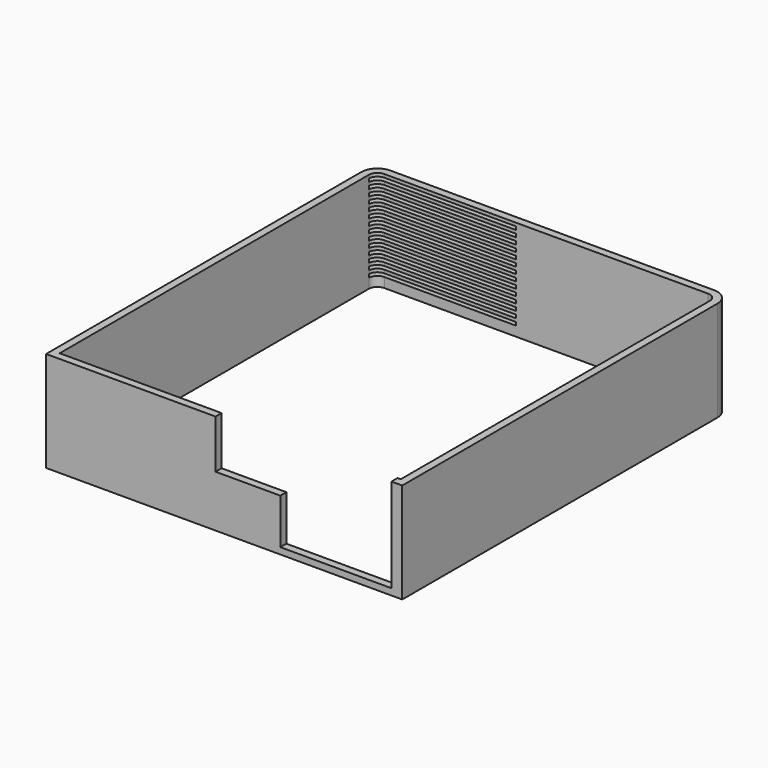
from build123d import *

# Parameters (mm, degrees)
F1_DEPTH  = 93
F3_DEPTH  = 25
F4_W      = 122
F4_H      = 3
F4_W_2    = 15
F5_DEPTH  = 15
F6_DEPTH  = 15
F7_DEPTH  = 15
F8_DEPTH  = 15
F9_DEPTH  = 15
F10_DEPTH = 15
F11_DEPTH = 15
F12_DEPTH = 15
F13_DEPTH = 15
F14_DEPTH = 15
F15_DEPTH = 15
F16_DEPTH = 15
F17_DEPTH = 15
F18_DEPTH = 15
F19_W     = 10
F19_H     = 20
F20_DEPTH = 0.2
F21_R     = 2.5
F22_DEPTH = 2
F23_DEPTH = 2
F24_W     = 13
F24_H     = 5
F25_DEPTH = 2


with BuildPart() as f1:
    # F0 (on Top) → F1 (new body)
    with BuildSketch(Plane.XY):
        with BuildLine():
            Line((67.644592, 203.804426), (-232.355408, 203.804426))
            ThreePointArc((-232.355408, 203.804426), (-242.96201, 199.411027), (-247.355408, 188.804426))
            Line((-247.355408, 188.804426), (-247.355408, -176.195574))
            Line((-247.355408, -176.195574), (82.644592, -176.195574))
            Line((82.644592, -176.195574), (82.644592, 188.804426))
            ThreePointArc((82.644592, 188.804426), (78.251193, 199.411027), (67.644592, 203.804426))
        make_face()
        with BuildLine():
            ThreePointArc((-240.355408, 188.804426), (-238.012263, 194.46128), (-232.355408, 196.804426))
            Line((-232.355408, 196.804426), (67.644592, 196.804426))
            ThreePointArc((67.644592, 196.804426), (73.301446, 194.46128), (75.644592, 188.804426))
            Line((75.644592, 188.804426), (75.644592, -169.195574))
            Line((75.644592, -169.195574), (-240.355408, -169.195574))
            Line((-240.355408, -169.195574), (-240.355408, 188.804426))
        make_face(mode=Mode.SUBTRACT)
    extrude(amount=F1_DEPTH)

    # F2 (on face) → F3 (cut)
    with BuildSketch(Plane.XZ.offset(176.195574)):
        Polygon((-30.355408, 6), (72.644592, 6), (72.644592, 100.520082), (-30.355408, 100.520082), (-30.355408, 48), align=None)
        Polygon((-90.355408, 48), (-30.355408, 48), (-30.355408, 100.520082), (-90.355408, 99.808939), align=None)
    extrude(amount=-F3_DEPTH, mode=Mode.SUBTRACT)

    # F4 (on face) → F5 (cut)
    with BuildSketch(Plane(origin=(0, 203.804426, 0), x_dir=(-1, 0, 0), z_dir=(0, 1, 0))):
        with Locations((171.355408, 88.5)):
            Rectangle(F4_W, F4_H)
        with Locations((239.855408, 88.5)):
            Rectangle(F4_W_2, F4_H)
    extrude(amount=-F5_DEPTH, mode=Mode.SUBTRACT)

    # F4 (on face) → F6 (cut)
    with BuildSketch(Plane(origin=(0, 203.804426, 0), x_dir=(-1, 0, 0), z_dir=(0, 1, 0))):
        with Locations((171.355408, 82.5)):
            Rectangle(F4_W, F4_H)
        with Locations((239.855408, 82.5)):
            Rectangle(F4_W_2, F4_H)
    extrude(amount=-F6_DEPTH, mode=Mode.SUBTRACT)

    # F4 (on face) → F7 (cut)
    with BuildSketch(Plane(origin=(0, 203.804426, 0), x_dir=(-1, 0, 0), z_dir=(0, 1, 0))):
        with Locations((171.355408, 76.5)):
            Rectangle(F4_W, F4_H)
        with Locations((239.855408, 76.5)):
            Rectangle(F4_W_2, F4_H)
    extrude(amount=-F7_DEPTH, mode=Mode.SUBTRACT)

    # F4 (on face) → F8 (cut)
    with BuildSketch(Plane(origin=(0, 203.804426, 0), x_dir=(-1, 0, 0), z_dir=(0, 1, 0))):
        with Locations((171.355408, 70.5)):
            Rectangle(F4_W, F4_H)
        with Locations((239.855408, 70.5)):
            Rectangle(F4_W_2, F4_H)
    extrude(amount=-F8_DEPTH, mode=Mode.SUBTRACT)

    # F4 (on face) → F9 (cut)
    with BuildSketch(Plane(origin=(0, 203.804426, 0), x_dir=(-1, 0, 0), z_dir=(0, 1, 0))):
        with Locations((171.355408, 64.5)):
            Rectangle(F4_W, F4_H)
        with Locations((239.855408, 64.5)):
            Rectangle(F4_W_2, F4_H)
    extrude(amount=-F9_DEPTH, mode=Mode.SUBTRACT)

    # F4 (on face) → F10 (cut)
    with BuildSketch(Plane(origin=(0, 203.804426, 0), x_dir=(-1, 0, 0), z_dir=(0, 1, 0))):
        with Locations((171.355408, 58.5)):
            Rectangle(F4_W, F4_H)
        with Locations((239.855408, 58.5)):
            Rectangle(F4_W_2, F4_H)
    extrude(amount=-F10_DEPTH, mode=Mode.SUBTRACT)

    # F4 (on face) → F11 (cut)
    with BuildSketch(Plane(origin=(0, 203.804426, 0), x_dir=(-1, 0, 0), z_dir=(0, 1, 0))):
        with Locations((171.355408, 52.5)):
            Rectangle(F4_W, F4_H)
        with Locations((239.855408, 52.5)):
            Rectangle(F4_W_2, F4_H)
    extrude(amount=-F11_DEPTH, mode=Mode.SUBTRACT)

    # F4 (on face) → F12 (cut)
    with BuildSketch(Plane(origin=(0, 203.804426, 0), x_dir=(-1, 0, 0), z_dir=(0, 1, 0))):
        with Locations((171.355408, 46.5)):
            Rectangle(F4_W, F4_H)
        with Locations((239.855408, 46.5)):
            Rectangle(F4_W_2, F4_H)
    extrude(amount=-F12_DEPTH, mode=Mode.SUBTRACT)

    # F4 (on face) → F13 (cut)
    with BuildSketch(Plane(origin=(0, 203.804426, 0), x_dir=(-1, 0, 0), z_dir=(0, 1, 0))):
        with Locations((171.355408, 40.5)):
            Rectangle(F4_W, F4_H)
        with Locations((239.855408, 40.5)):
            Rectangle(F4_W_2, F4_H)
    extrude(amount=-F13_DEPTH, mode=Mode.SUBTRACT)

    # F4 (on face) → F14 (cut)
    with BuildSketch(Plane(origin=(0, 203.804426, 0), x_dir=(-1, 0, 0), z_dir=(0, 1, 0))):
        with Locations((171.355408, 34.5)):
            Rectangle(F4_W, F4_H)
        with Locations((239.855408, 34.5)):
            Rectangle(F4_W_2, F4_H)
    extrude(amount=-F14_DEPTH, mode=Mode.SUBTRACT)

    # F4 (on face) → F15 (cut)
    with BuildSketch(Plane(origin=(0, 203.804426, 0), x_dir=(-1, 0, 0), z_dir=(0, 1, 0))):
        with Locations((171.355408, 28.5)):
            Rectangle(F4_W, F4_H)
        with Locations((239.855408, 28.5)):
            Rectangle(F4_W_2, F4_H)
    extrude(amount=-F15_DEPTH, mode=Mode.SUBTRACT)

    # F4 (on face) → F16 (cut)
    with BuildSketch(Plane(origin=(0, 203.804426, 0), x_dir=(-1, 0, 0), z_dir=(0, 1, 0))):
        with Locations((171.355408, 22.5)):
            Rectangle(F4_W, F4_H)
        with Locations((239.855408, 22.5)):
            Rectangle(F4_W_2, F4_H)
    extrude(amount=-F16_DEPTH, mode=Mode.SUBTRACT)

    # F4 (on face) → F17 (cut)
    with BuildSketch(Plane(origin=(0, 203.804426, 0), x_dir=(-1, 0, 0), z_dir=(0, 1, 0))):
        with Locations((171.355408, 16.5)):
            Rectangle(F4_W, F4_H)
        with Locations((239.855408, 16.5)):
            Rectangle(F4_W_2, F4_H)
    extrude(amount=-F17_DEPTH, mode=Mode.SUBTRACT)

    # F4 (on face) → F18 (cut)
    with BuildSketch(Plane(origin=(0, 203.804426, 0), x_dir=(-1, 0, 0), z_dir=(0, 1, 0))):
        with Locations((171.355408, 10.5)):
            Rectangle(F4_W, F4_H)
        with Locations((239.855408, 10.5)):
            Rectangle(F4_W_2, F4_H)
    extrude(amount=-F18_DEPTH, mode=Mode.SUBTRACT)

    # F19 (on face) → F20 (join)
    with BuildSketch(Plane(origin=(0, 203.804426, 0), x_dir=(-1, 0, 0), z_dir=(0, 1, 0))):
        with Locations((88.355408, 73)):
            Rectangle(F19_W, F19_H)
    extrude(amount=F20_DEPTH)

    # F21 (on face) → F22 (cut)
    with BuildSketch(Plane(origin=(0, 203.804426, 0), x_dir=(-1, 0, 0), z_dir=(0, 1, 0))):
        with Locations((83.355408, 43)):
            Circle(F21_R)
    extrude(amount=-F22_DEPTH, mode=Mode.SUBTRACT)

    # F21 (on face) → F23 (cut)
    with BuildSketch(Plane(origin=(0, 203.804426, 0), x_dir=(-1, 0, 0), z_dir=(0, 1, 0))):
        with Locations((96.355408, 43)):
            Circle(F21_R)
    extrude(amount=-F23_DEPTH, mode=Mode.SUBTRACT)

    # F24 (on face) → F25 (cut)
    with BuildSketch(Plane(origin=(0, 203.804426, 0), x_dir=(-1, 0, 0), z_dir=(0, 1, 0))):
        with Locations((91.216292, 32.372116)):
            Rectangle(F24_W, F24_H)
    extrude(amount=-F25_DEPTH, mode=Mode.SUBTRACT)


solid = f1.part
